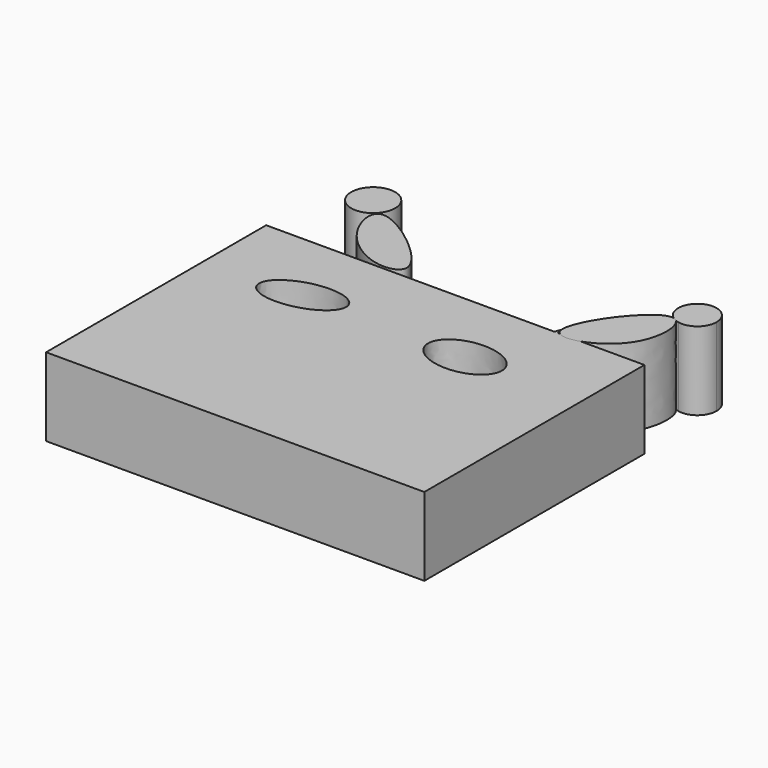
from build123d import *

# Parameters (mm, degrees)
F1_DEPTH = 25.4
F0_R     = 7.1291178454
F3_DEPTH = 25.4


with BuildPart() as f1:
    # F0 (on Top) → F1 (new body)
    with BuildSketch(Plane.XY):
        with BuildLine():
            ThreePointArc((50.4670934629, 69.9548799766), (51.8648250984, 68.9377295564), (53.4884831128, 68.3444477058))
            add(Edge.make_bspline(
                [(50.4670934629, 69.9548799766), (51.67938739, 69.5537530757), (52.7325190993, 68.8736623691), (53.4884831128, 68.3444477058)],
                knots=[0.7241837318, 0.7241837318, 0.7241837318, 0.7241837318, 0.856927309, 0.856927309, 0.856927309, 0.856927309], degree=3))
        make_face()
        with BuildLine():
            add(Edge.make_bspline(
                [(50.4670934629, 69.9548799766), (51.67938739, 69.5537530757), (52.7325190993, 68.8736623691), (53.4884831128, 68.3444477058)],
                knots=[0.7241837318, 0.7241837318, 0.7241837318, 0.7241837318, 0.856927309, 0.856927309, 0.856927309, 0.856927309], degree=3))
            ThreePointArc((53.4884831128, 68.3444477058), (58.7027396854, 69.5900480762), (61.0125194262, 74.4279101491))
            ThreePointArc((61.0125194262, 74.4279101491), (52.3617555873, 80.1553442969), (50.4670934629, 69.9548799766))
        make_face()
    extrude(amount=F1_DEPTH)


with BuildPart() as f1b:
    # F0 (on Top) → F1, piece 2 (new body)
    with BuildSketch(Plane.XY):
        with BuildLine():
            Line((-61.4030249417, -44.6567460895), (61.4030249417, -44.6567460895))
            Line((61.4030249417, -44.6567460895), (61.4030249417, 44.6567460895))
            Line((61.4030249417, 44.6567460895), (33.2829244435, 44.6567460895))
            Line((33.2829244435, 44.6567460895), (32.0420637727, 44.6567460895))
            add(Edge.make_bspline(
                [(31.6284447908, 44.6567460895), (31.6719465842, 44.5108211024), (31.8697115608, 44.4857987754), (32.0420637727, 44.6567460895)],
                knots=[0.6233187493, 0.6233187493, 0.6233187493, 0.6233187493, 0.6935227523, 0.6935227523, 0.6935227523, 0.6935227523], degree=3))
            Line((31.6284447908, 44.6567460895), (-61.4030249417, 44.6567460895))
            Line((-61.4030249417, 44.6567460895), (-61.4030249417, -44.6567460895))
        make_face()
        with BuildLine():
            add(Edge.make_bspline(
                [(-17.5732560456, 22.9486040771), (-19.7870861976, 34.2022424839), (-37.5972632437, 24.8540287044), (-55.4074402899, 15.5058149248), (-35.3834330917, 13.6003902976), (-15.3594258935, 11.6949656703), (-17.5732560456, 22.9486040771)],
                knots=[0, 0, 0, 2.0943951024, 2.0943951024, 4.1887902048, 4.1887902048, 6.2831853072, 6.2831853072, 6.2831853072], degree=2, weights=[1, 0.5, 1, 0.5, 1, 0.5, 1]))
        make_face(mode=Mode.SUBTRACT)
        with BuildLine():
            add(Edge.make_bspline(
                [(35.1465120912, 19.6406971663), (35.1465120912, 33.2562682867), (17.1597693115, 26.4484827265), (-0.8269734681, 19.6406971663), (17.1597693115, 12.8329116062), (35.1465120912, 6.025126046), (35.1465120912, 19.6406971663)],
                knots=[0, 0, 0, 2.0943951024, 2.0943951024, 4.1887902048, 4.1887902048, 6.2831853072, 6.2831853072, 6.2831853072], degree=2, weights=[1, 0.5, 1, 0.5, 1, 0.5, 1]))
        make_face(mode=Mode.SUBTRACT)
        with BuildLine():
            Line((32.0420637727, 44.6567460895), (33.2829244435, 44.6567460895))
            add(Edge.make_bspline(
                [(32.0420637727, 44.6567460895), (32.4244808231, 45.0360459366), (32.9307335094, 47.6805361445), (33.1668272031, 45.6535170079), (33.2829244435, 44.6567460895)],
                knots=[0.6935227523, 0.6935227523, 0.6935227523, 0.6935227523, 0.8492921936, 1, 1, 1, 1], degree=3))
        make_face()
        with BuildLine():
            Line((32.0420637727, 44.6567460895), (31.6284447908, 44.6567460895))
            add(Edge.make_bspline(
                [(31.6284447908, 44.6567460895), (31.6719465842, 44.5108211024), (31.8697115608, 44.4857987754), (32.0420637727, 44.6567460895)],
                knots=[0.6233187493, 0.6233187493, 0.6233187493, 0.6233187493, 0.6935227523, 0.6935227523, 0.6935227523, 0.6935227523], degree=3))
        make_face()
    extrude(amount=F1_DEPTH)


with BuildPart() as f1c:
    # F0 (on Top) → F1, piece 3 (new body)
    with BuildSketch(Plane.XY):
        with BuildLine():
            add(Edge.make_bspline(
                [(-19.039971754, 49.4118593633), (-20.2792718662, 55.3138094476), (-46.8285584894, 76.1498871453), (-43.1619688481, 54.2963633972), (-26.7946297406, 43.3694384517), (-18.4324582283, 46.5186824254), (-19.039971754, 49.4118593633)],
                knots=[0, 0, 0, 0, 0.3430790237, 0.5464085177, 0.8318202789, 1, 1, 1, 1], degree=3))
        make_face()
    extrude(amount=F1_DEPTH)


with BuildPart() as f1d:
    # F0 (on Top) → F1, piece 4 (new body)
    with BuildSketch(Plane.XY):
        with Locations((-48.8205961883, 72.3604634404)):
            Circle(F0_R)
    extrude(amount=F1_DEPTH)


with BuildPart() as f3:
    # F2 (on Top) → F3 (new body)
    with BuildSketch(Plane.XY):
        with BuildLine():
            add(Edge.make_bspline(
                [(33.0761149526, 45.8972081542), (31.1070518213, 51.4487691155), (53.9197684523, 83.0318615687), (56.7605581654, 48.3689867838), (34.6698011682, 41.4039818889), (33.0761149526, 45.8972081542)],
                knots=[0, 0, 0, 0, 0.3880535212, 0.6859239616, 1, 1, 1, 1], degree=3))
        make_face()
    extrude(amount=F3_DEPTH)


solid = Compound([f1.part, f1b.part, f1c.part, f1d.part, f3.part])
